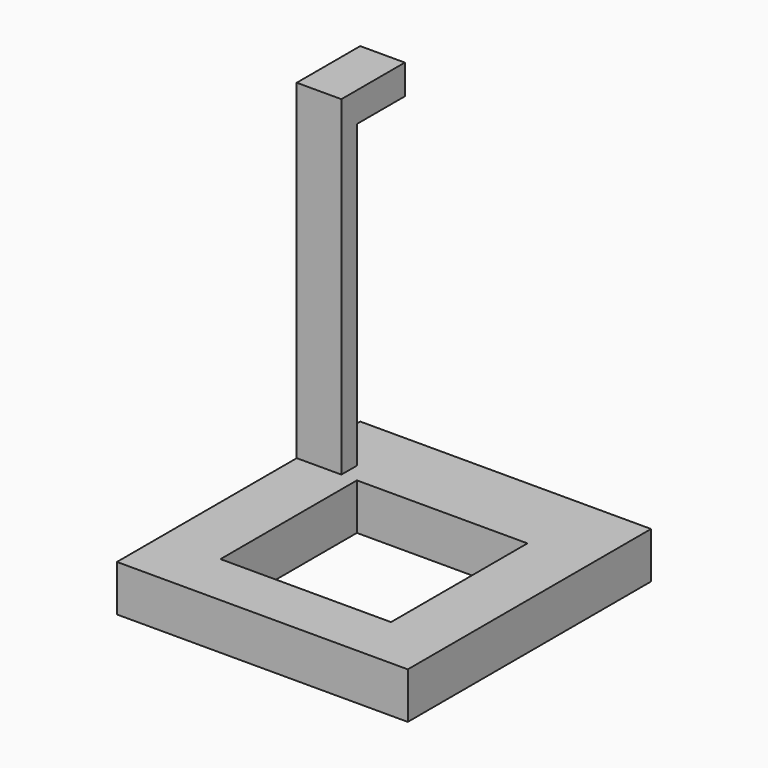
from build123d import *

# Parameters (mm, degrees)
SKETCH_W     = 44
SKETCH_H     = 46
PAD_DEPTH    = 7
SKETCH001_W  = 25.8
SKETCH001_H  = 25.8
POCKET_DEPTH = 8
SKETCH002_W  = 6.75
SKETCH002_H  = 3
PAD001_DEPTH = 50
SKETCH006_W  = 6.75
SKETCH006_H  = 4.5
PAD017_DEPTH = 9


with BuildPart() as part:
    # Sketch → Pad (new body)
    with BuildSketch(Plane.XY):
        with Locations((-22, -23)):
            Rectangle(SKETCH_W, SKETCH_H)
    extrude(amount=PAD_DEPTH)

    # Sketch001 (on Face6 of Pad) → Pocket (cut)
    with BuildSketch(Plane.XY.offset(7)):
        with Locations((-22, -24.9)):
            Rectangle(SKETCH001_W, SKETCH001_H)
    extrude(amount=-POCKET_DEPTH, mode=Mode.SUBTRACT)

    # Sketch002 (on Face5 of Pocket) → Pad001 (new body)
    with BuildSketch(Plane.XY.offset(7)):
        with Locations((-40.625, -10.5)):
            Rectangle(SKETCH002_W, SKETCH002_H)
    extrude(amount=PAD001_DEPTH)

    # Sketch006 (on Face14 of Pad001) → Pad017 (new body)
    with BuildSketch(Plane(origin=(0, -9, 0), x_dir=(-1, 0, 0), z_dir=(0, 1, 0))):
        with Locations((40.625, 54.75)):
            Rectangle(SKETCH006_W, SKETCH006_H)
    extrude(amount=PAD017_DEPTH)


solid = part.part
